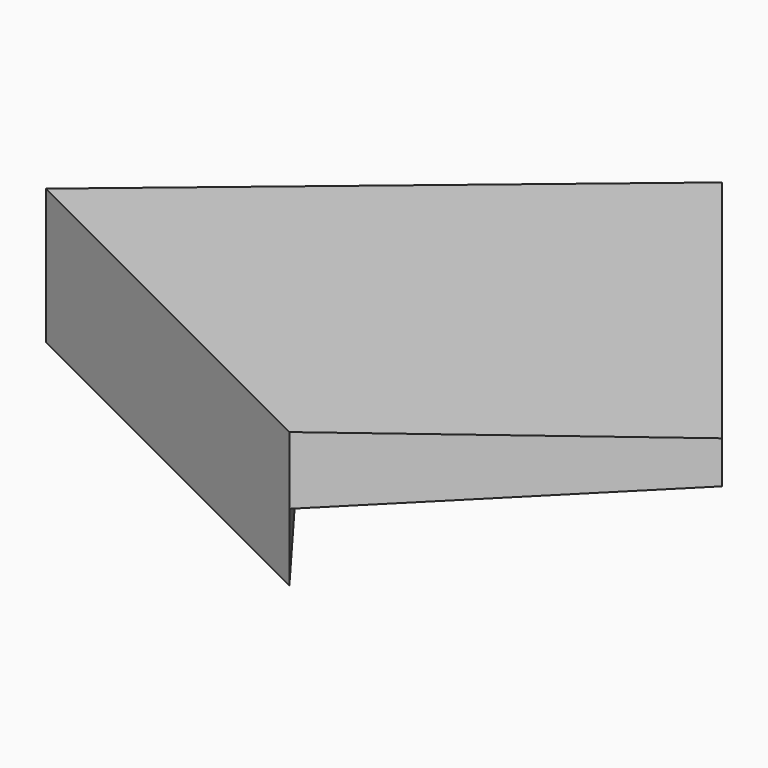
from build123d import *

# Parameters (mm, degrees)
F2_DEPTH = 50.8
F4_DEPTH = 254.001


with BuildPart() as f2:
    # F1 (on offset) → F2 (new body)
    with BuildSketch(Plane.XY.offset(25.4)):
        Polygon((0, 127), (-152.4, 0), (0, -76.2), (101.6, 0), align=None)
    extrude(amount=F2_DEPTH)

    # F3 (on face) → F4 (cut, through all)
    with BuildSketch(Plane(origin=(36.576, -48.768, 0), x_dir=(0.8, 0.6, 0), z_dir=(0.6, -0.8, 0))):
        Polygon((-45.72, 25.4), (294.287443, 25.4), (293.713361, 76.2), (-45.72, 50.8), align=None)
    extrude(amount=-F4_DEPTH, mode=Mode.SUBTRACT)


solid = f2.part
